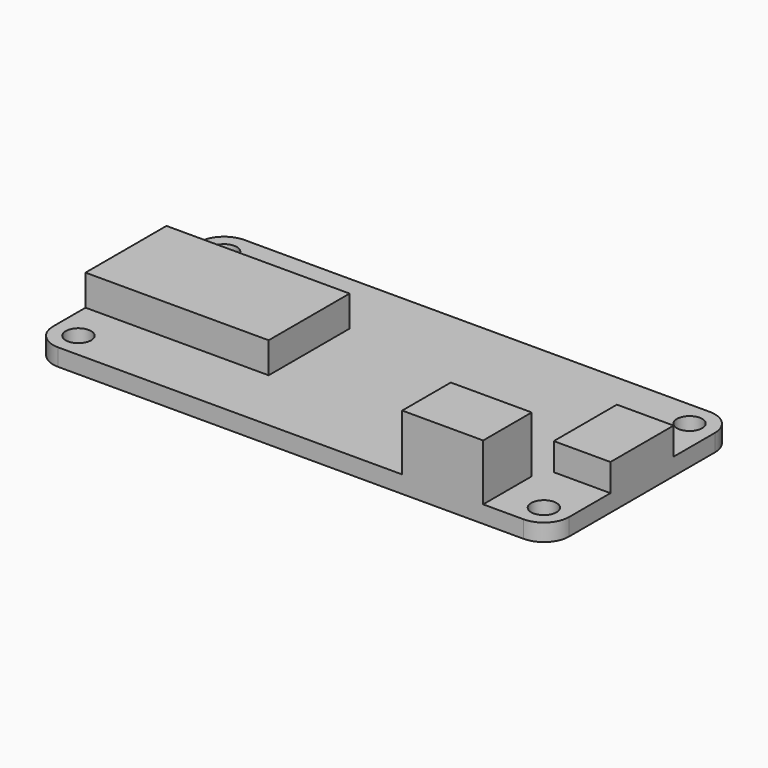
from build123d import *

# Parameters (mm, degrees)
F4_R     = 1.25
F4_W     = 18.1
F4_H     = 10
F4_W_2   = 8
F4_H_2   = 6
F4_W_3   = 5.6
F4_H_3   = 7.8
F5_DEPTH = 1.7
F6_DEPTH = 5.56
F7_DEPTH = 3.05
F8_DEPTH = 2.71


with BuildPart() as f5:
    # F4 (on Top) → F5 (new body)
    with BuildSketch(Plane.XY):
        with BuildLine():
            Line((23, 11.5), (-23, 11.5))
            ThreePointArc((-23, 11.5), (-24.767766953, 10.767766953), (-25.5, 9))
            Line((-25.5, 9), (-25.5, 5))
            Line((-25.5, 5), (-7.4, 5))
            Line((-7.4, 5), (-7.4, -5))
            Line((-7.4, -5), (-25.5, -5))
            Line((-25.5, -5), (-25.5, -9))
            ThreePointArc((-25.5, -9), (-24.767766953, -10.767766953), (-23, -11.5))
            Line((-23, -11.5), (11, -11.5))
            Line((11, -11.5), (11, -5.5))
            Line((11, -5.5), (19, -5.5))
            Line((19, -5.5), (19, -11.5))
            Line((19, -11.5), (23, -11.5))
            ThreePointArc((23, -11.5), (24.767766953, -10.767766953), (25.5, -9))
            Line((25.5, -9), (25.5, -3.9))
            Line((25.5, -3.9), (19.9, -3.9))
            Line((19.9, -3.9), (19.9, 3.9))
            Line((19.9, 3.9), (25.5, 3.9))
            Line((25.5, 3.9), (25.5, 9))
            ThreePointArc((25.5, 9), (24.767766953, 10.767766953), (23, 11.5))
        make_face()
        with Locations((-23, -9)):
            Circle(F4_R, mode=Mode.SUBTRACT)
        with Locations((23, -9)):
            Circle(F4_R, mode=Mode.SUBTRACT)
        with Locations((-23, 9)):
            Circle(F4_R, mode=Mode.SUBTRACT)
        with Locations((23, 9)):
            Circle(F4_R, mode=Mode.SUBTRACT)
        with Locations((-16.45, 0)):
            Rectangle(F4_W, F4_H)
        with Locations((15, -8.5)):
            Rectangle(F4_W_2, F4_H_2)
        with Locations((22.7, 0)):
            Rectangle(F4_W_3, F4_H_3)
    extrude(amount=-F5_DEPTH)

    # F4 (on Top) → F6 (join)
    with BuildSketch(Plane.XY):
        with Locations((15, -8.5)):
            Rectangle(F4_W_2, F4_H_2)
    extrude(amount=F6_DEPTH)

    # F4 (on Top) → F7 (join)
    with BuildSketch(Plane.XY):
        with Locations((-16.45, 0)):
            Rectangle(F4_W, F4_H)
    extrude(amount=F7_DEPTH)

    # F4 (on Top) → F8 (join)
    with BuildSketch(Plane.XY):
        with Locations((22.7, 0)):
            Rectangle(F4_W_3, F4_H_3)
    extrude(amount=F8_DEPTH)


solid = f5.part
